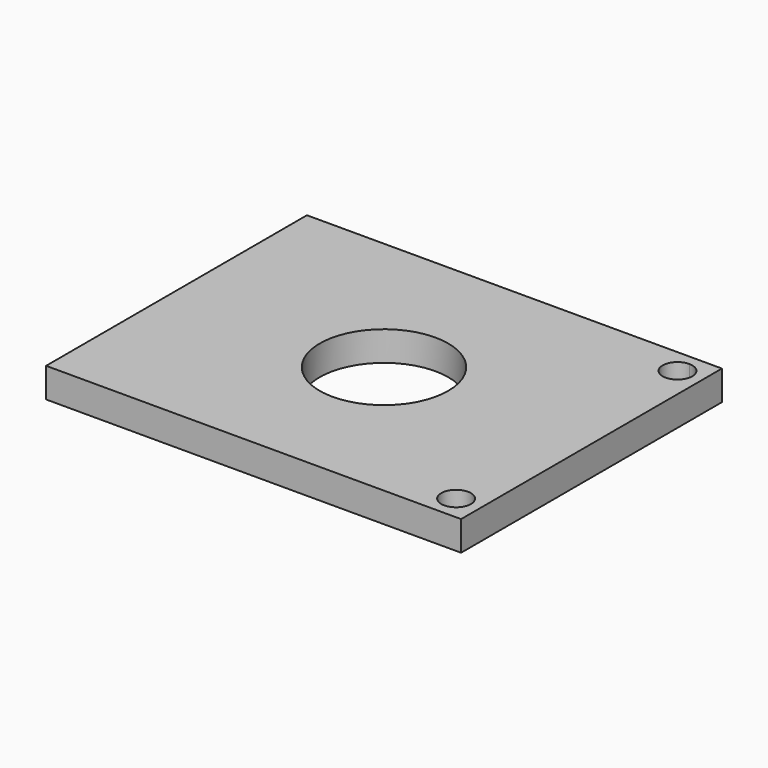
from build123d import *

# Parameters (mm, degrees)
F0_R     = 6.5
F1_DEPTH = 3


with BuildPart() as f1:
    # F0 (on Top) → F1 (new body)
    with BuildSketch(Plane.XY):
        Polygon((21, -16.5), (21, 16.5), (18.5, 16.5), (-21, 16.5), (-21, -16.5), (18.5, -16.5), align=None)
        with BuildLine():
            ThreePointArc((20, -14), (19.56066, -15.06066), (18.5, -15.5))
            ThreePointArc((18.5, -15.5), (17.43934, -12.93934), (20, -14))
        make_face(mode=Mode.SUBTRACT)
        Circle(F0_R, mode=Mode.SUBTRACT)
        with BuildLine():
            ThreePointArc((20, 14), (17.43934, 12.93934), (18.5, 15.5))
            ThreePointArc((18.5, 15.5), (19.56066, 15.06066), (20, 14))
        make_face(mode=Mode.SUBTRACT)
    extrude(amount=F1_DEPTH)


solid = f1.part
